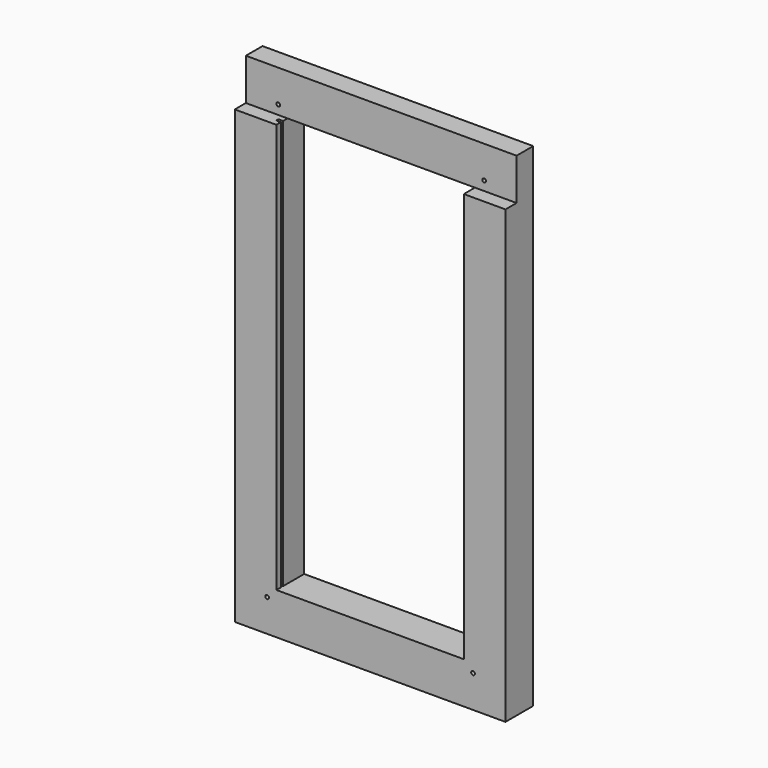
from build123d import *

# Parameters (mm, degrees)
F0_W     = 90
F0_H     = 885
F0_R     = 4
F1_DEPTH = 45
F2_DEPTH = 75
F3_W     = 10
F3_H     = 6
F4_DEPTH = 885


with BuildPart() as f1:
    # F0 (on Front) → F1 (new body)
    with BuildSketch(Plane.XZ):
        with Locations((540, -442.5)):
            Rectangle(F0_W, F0_H)
        Polygon((90, -885), (0, -885), (0, -975), (585, -975), (585, -885), (495, -885), align=None)
        with Locations((70, -905)):
            Circle(F0_R, mode=Mode.SUBTRACT)
        with Locations((515, -905)):
            Circle(F0_R, mode=Mode.SUBTRACT)
        with Locations((45, -442.5)):
            Rectangle(F0_W, F0_H)
        Polygon((0, 90), (0, 0), (90, 0), (495, 0), (585, 0), (585, 90), align=None)
        with Locations((70, 20)):
            Circle(F0_R, mode=Mode.SUBTRACT)
        with Locations((515, 20)):
            Circle(F0_R, mode=Mode.SUBTRACT)
    extrude(amount=F1_DEPTH)

    # F0 (on Front) → F2 (join)
    with BuildSketch(Plane.XZ):
        Polygon((90, -885), (0, -885), (0, -975), (585, -975), (585, -885), (495, -885), align=None)
        with Locations((70, -905)):
            Circle(F0_R, mode=Mode.SUBTRACT)
        with Locations((515, -905)):
            Circle(F0_R, mode=Mode.SUBTRACT)
        with Locations((45, -442.5)):
            Rectangle(F0_W, F0_H)
        with Locations((540, -442.5)):
            Rectangle(F0_W, F0_H)
    extrude(amount=F2_DEPTH)

    # F3 (on Top) → F4 (cut, through all)
    with BuildSketch(Plane.XY):
        with Locations((85, -60)):
            Rectangle(F3_W, F3_H)
    extrude(amount=-F4_DEPTH, mode=Mode.SUBTRACT)


solid = f1.part
